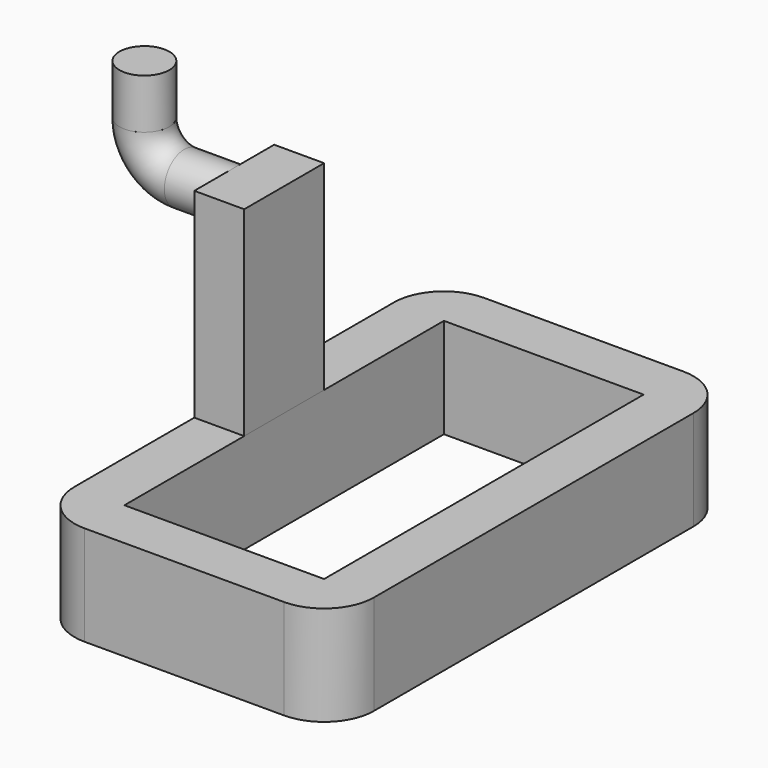
from build123d import *

# Parameters (mm, degrees)
CYLINDER002_R           = 2.5
CYLINDER002_DEPTH       = 6
CYLINDER002_PITCH_ANGLE = -90
BOX001_W                = 5
BOX001_H                = 10
BOX001_DEPTH            = 30
CYLINDER003_R           = 2.5
CYLINDER003_DEPTH       = 5
CYLINDER003_PITCH_ANGLE = -90
TORUS_R                 = 2.5
TORUS_ANGLE             = 90
CYLINDER004_R           = 2.5
CYLINDER004_DEPTH       = 5
BOX002_W                = 5
BOX002_H                = 4
BOX002_DEPTH            = 4
BOX003_W                = 20
BOX003_H                = 40
BOX003_DEPTH            = 10
BOX_W                   = 30
BOX_H                   = 50
BOX_DEPTH               = 10
FILLET_R                = 5


with BuildPart() as cylinder002:
    # Cylinder002 → Cylinder002 (new body)
    with BuildSketch(Plane.XY):
        Circle(CYLINDER002_R)
    extrude(amount=CYLINDER002_DEPTH)


with BuildPart() as cylinder002_1:
    # Cylinder002 pitch: moved
    add(cylinder002.part.rotate(Axis((0, 0, 0), (0, 1, 0)), CYLINDER002_PITCH_ANGLE))


with BuildPart() as cylinder002_2:
    # Cylinder002 placement: moved
    add(cylinder002_1.part.moved(Location((-5, 0, 2.5))))


with BuildPart() as cube001:
    # Box001 → Box001 (new body)
    with BuildSketch(Plane(origin=(-5, -5, 0), x_dir=(1, 0, 0), z_dir=(0, 0, 1))):
        with Locations((2.5, 5)):
            Rectangle(BOX001_W, BOX001_H)
    extrude(amount=BOX001_DEPTH)


with BuildPart() as cylinder003:
    # Cylinder003 → Cylinder003 (new body)
    with BuildSketch(Plane.XY):
        Circle(CYLINDER003_R)
    extrude(amount=CYLINDER003_DEPTH)


with BuildPart() as cylinder003_1:
    # Cylinder003 pitch: moved
    add(cylinder003.part.rotate(Axis((0, 0, 0), (0, 1, 0)), CYLINDER003_PITCH_ANGLE))


with BuildPart() as cylinder003_2:
    # Cylinder003 placement: moved
    add(cylinder003_1.part.moved(Location((-5, 0, 27.5))))


with BuildPart() as torus:
    # Torus → Torus (revolve)
    with BuildSketch(Plane(origin=(-10, 0, 31.5), x_dir=(0, 0, -1), z_dir=(1, 0, 0))):
        with Locations((4, 0)):
            Circle(TORUS_R)
    revolve(axis=Axis((-10, 0, 31.5), (0, 1, 0)), revolution_arc=TORUS_ANGLE)


with BuildPart() as cylinder004:
    # Cylinder004 → Cylinder004 (new body)
    with BuildSketch(Plane(origin=(-14, 0, 31.5), x_dir=(1, 0, 0), z_dir=(0, 0, 1))):
        Circle(CYLINDER004_R)
    extrude(amount=CYLINDER004_DEPTH)


with BuildPart() as cube002:
    # Box002 → Box002 (new body)
    with BuildSketch(Plane(origin=(-10, -2, 0.5), x_dir=(1, 0, 0), z_dir=(0, 0, 1))):
        with Locations((2.5, 2)):
            Rectangle(BOX002_W, BOX002_H)
    extrude(amount=BOX002_DEPTH)


with BuildPart() as cube003:
    # Box003 → Box003 (new body)
    with BuildSketch(Plane(origin=(0, -20, 0), x_dir=(1, 0, 0), z_dir=(0, 0, 1))):
        with Locations((10, 20)):
            Rectangle(BOX003_W, BOX003_H)
    extrude(amount=BOX003_DEPTH)


with BuildPart() as fillet_body:
    # Box → Box (new body)
    with BuildSketch(Plane(origin=(-5, -25, 0), x_dir=(1, 0, 0), z_dir=(0, 0, 1))):
        with Locations((15, 25)):
            Rectangle(BOX_W, BOX_H)
    extrude(amount=BOX_DEPTH)

    # Cut: cut Cube003
    add(cube003.part, mode=Mode.SUBTRACT)

    # Fillet
    fillet_edges = [fillet_body.edges().sort_by_distance(p)[0] for p in [
        (-5, -25, 5),
        (-5, 25, 5),
        (25, -25, 5),
        (25, 25, 5),
    ]]
    fillet(fillet_edges, radius=FILLET_R)


solid = Compound([cylinder002_2.part, cube001.part, cylinder003_2.part, torus.part, cylinder004.part, cube002.part, fillet_body.part])
